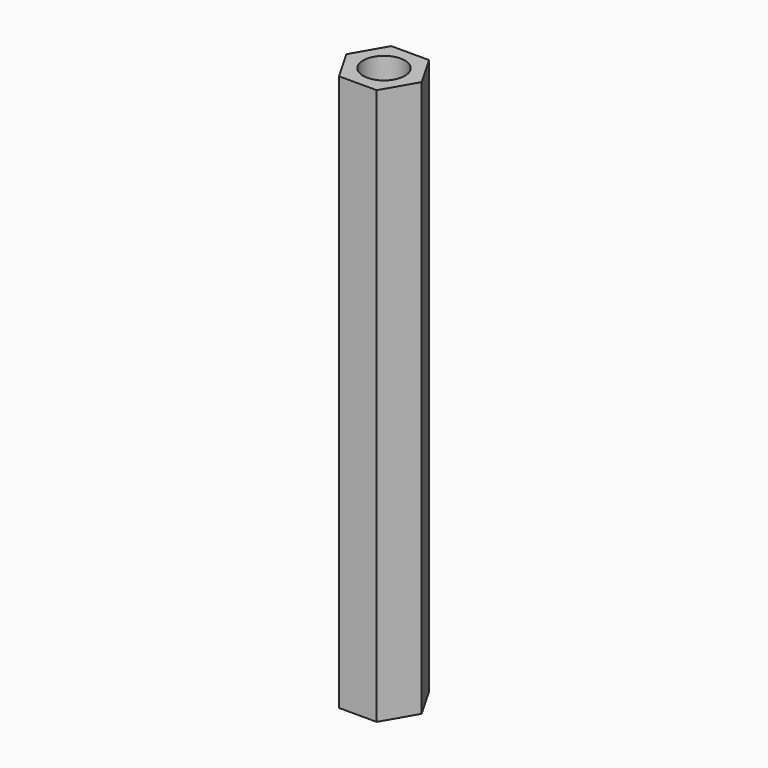
from build123d import *

# Parameters (mm, degrees)
SKETCH_R  = 1.5
PAD_DEPTH = 40


with BuildPart() as part:
    # Sketch → Pad (new body)
    with BuildSketch(Plane.XY):
        Polygon((-1.356773, -2.35), (1.356773, -2.35), (2.713546, 0), (1.356773, 2.35), (-1.356773, 2.35), (-2.713546, 0), align=None)
        Circle(SKETCH_R, mode=Mode.SUBTRACT)
    extrude(amount=PAD_DEPTH)


solid = part.part
